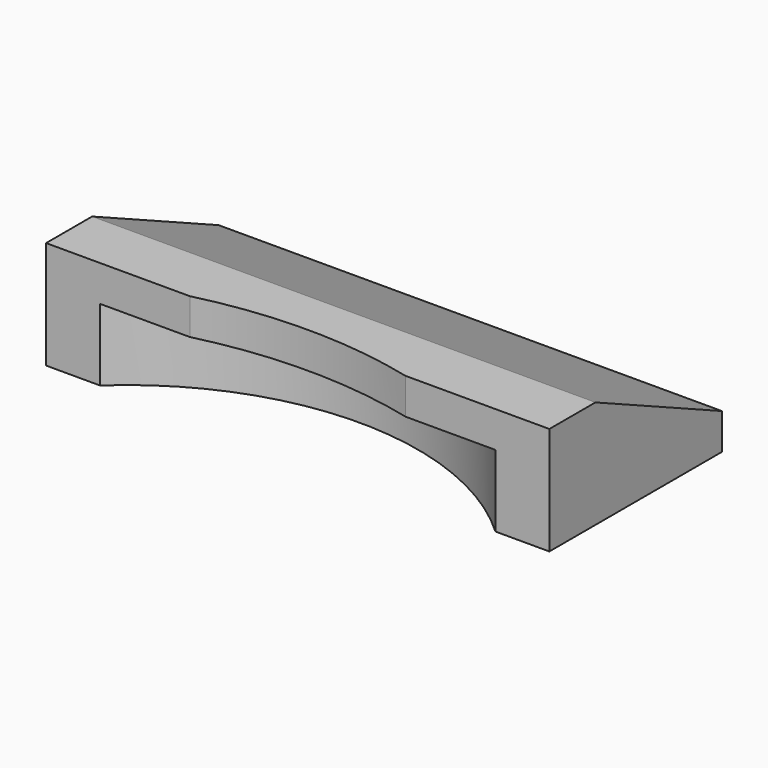
from build123d import *

# Parameters (mm, degrees)
F0_W     = 88.9
F0_H     = 38.1
F1_DEPTH = 19.05
F3_DEPTH = 88.9
F5_DEPTH = 25.4
F7_DEPTH = 12.7
F9_D     = 3.175
F9_DEPTH = 10.16
F9_TIP   = 0.9538662327


with BuildPart() as f1:
    # F0 (on Top) → F1 (new body)
    with BuildSketch(Plane.XY):
        Rectangle(F0_W, F0_H)
    extrude(amount=F1_DEPTH)

    # F2 (on face) → F3 (cut)
    with BuildSketch(Plane(origin=(-44.45, 0, 0), x_dir=(0, -1, 0), z_dir=(-1, 0, 0))):
        Polygon((-19.05, 19.05), (-19.05, 6.35), (8.89, 19.05), align=None)
    extrude(amount=-F3_DEPTH, mode=Mode.SUBTRACT)

    # F4 (on face) → F5 (cut)
    with BuildSketch(Plane.XY.offset(19.05)):
        with BuildLine():
            ThreePointArc((19.05, -19.05), (0, -16.7213844667), (-19.05, -19.05))
            Line((-19.05, -19.05), (19.05, -19.05))
        make_face()
    extrude(amount=-F5_DEPTH, mode=Mode.SUBTRACT)

    # F6 (on face) → F7 (cut)
    with BuildSketch(Plane(origin=(0, 0, 0), x_dir=(1, 0, 0), z_dir=(0, 0, -1))):
        with BuildLine():
            ThreePointArc((-34.925, 19.05), (0, 5.3458547425), (34.925, 19.05))
            Line((34.925, 19.05), (19.05, 19.05))
            ThreePointArc((19.05, 19.05), (0, 16.7213844667), (-19.05, 19.05))
            Line((-19.05, 19.05), (-34.925, 19.05))
        make_face()
    extrude(amount=-F7_DEPTH, mode=Mode.SUBTRACT)

    # F9
    with Locations(Plane(origin=(0, 0, 0), x_dir=(1, 0, 0), z_dir=(0, 0, -1))):
        with Locations((31.75, -6.35), (-31.75, -6.35)):
            Hole(F9_D / 2, depth=F9_DEPTH)
            with Locations((0, 0, -(F9_DEPTH + F9_TIP / 2))):  # 118° drill point
                Cone(0, F9_D / 2, F9_TIP, mode=Mode.SUBTRACT)


solid = f1.part
